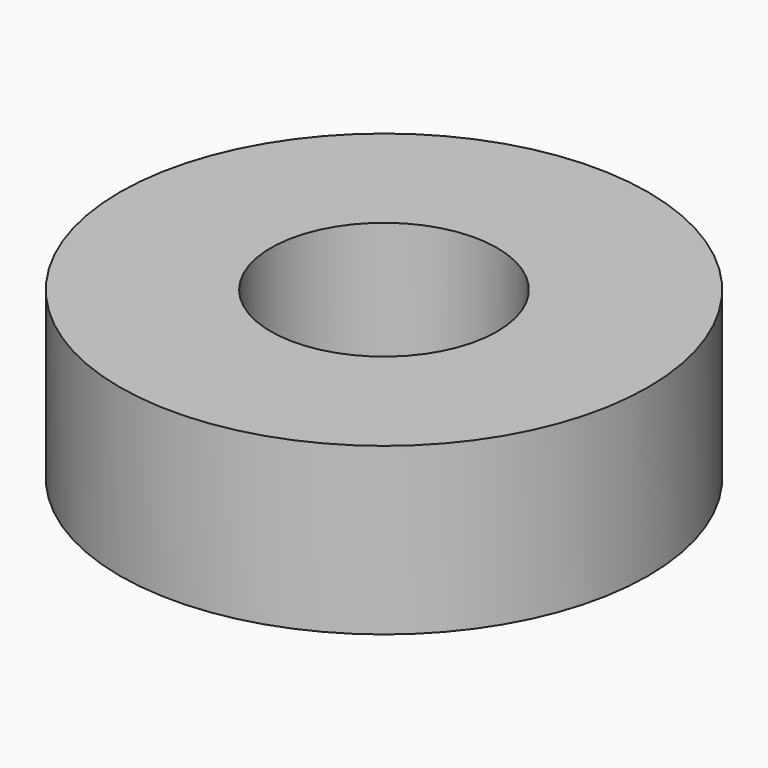
from build123d import *

# Parameters (mm, degrees)
SKETCH_R   = 17.5
SKETCH_R_2 = 7.5
PAD_DEPTH  = 11


with BuildPart() as part:
    # Sketch → Pad (new body)
    with BuildSketch(Plane.XY):
        Circle(SKETCH_R)
        Circle(SKETCH_R_2, mode=Mode.SUBTRACT)
    extrude(amount=PAD_DEPTH)


solid = part.part
